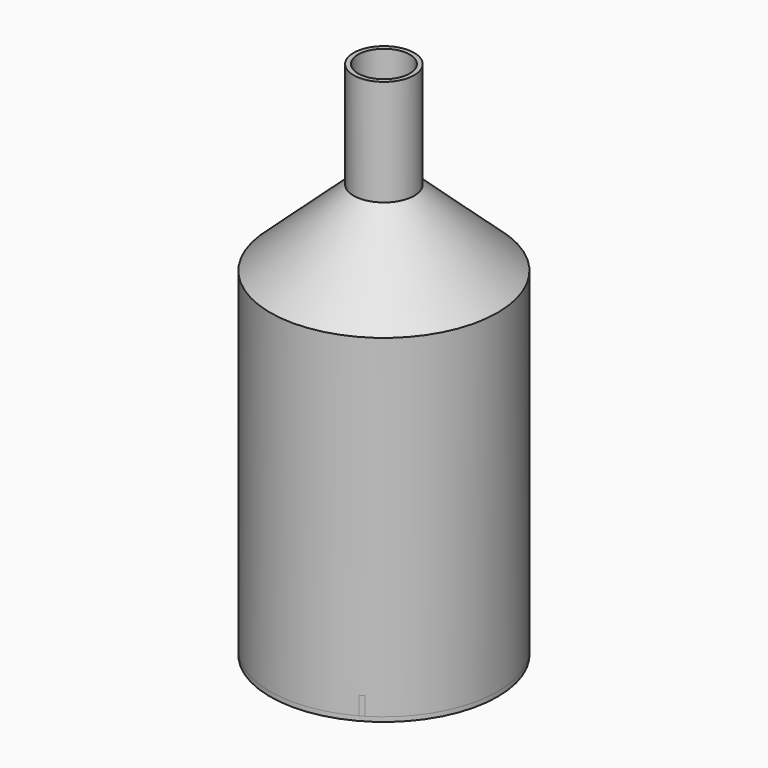
from build123d import *

# Parameters (mm, degrees)
F2_R      = 4
F2_R_2    = 3.4
F5_DEPTH  = 14
F7_R      = 15
F3_R      = 4
F4_R      = 3.2
F8_R      = 14.2
F6_R      = 15
F6_R_2    = 14.4
F11_DEPTH = 44
F14_DEPTH = 2.4
F15_R     = 15
F16_DEPTH = 0.6


with BuildPart() as f5:
    # F2 (on Top) → F5 (new body)
    with BuildSketch(Plane.XY):
        Circle(F2_R)
        Circle(F2_R_2, mode=Mode.SUBTRACT)
    extrude(amount=F5_DEPTH)

    # F7 (on offset) → F9 section 0
    with BuildSketch(Plane.XY.offset(-10)):
        Circle(F7_R)
    # F3 (on Top) → F9 section 1
    with BuildSketch(Plane.XY):
        Circle(F3_R)
    loft()

    # F4 (on Top) → F10 section 0
    with BuildSketch(Plane.XY):
        Circle(F4_R)
    # F8 (on offset) → F10 section 1
    with BuildSketch(Plane.XY.offset(-10)):
        Circle(F8_R)
    loft(mode=Mode.SUBTRACT)

    # F6 (on offset) → F11 (join)
    with BuildSketch(Plane.XY.offset(-10)):
        Circle(F6_R)
        Circle(F6_R_2, mode=Mode.SUBTRACT)
    extrude(amount=-F11_DEPTH)

    # F13 (on offset) → F14 (join)
    with BuildSketch(Plane(origin=(0, 0, -54), x_dir=(1, 0, 0), z_dir=(0, 0, -1))):
        with BuildLine():
            Line((0.3464101615, 0), (7.7583074711, 12.8377827207))
            ThreePointArc((7.7583074711, 12.8377827207), (7.5, 12.9903810568), (7.2386922288, 13.1377827207))
            Line((7.2386922288, 13.1377827207), (-0.1732050808, 0.3))
            Line((-0.1732050808, 0.3), (-14.9969996999, 0.3))
            ThreePointArc((-14.9969996999, 0.3), (-15, 0), (-14.9969996999, -0.3))
            Line((-14.9969996999, -0.3), (-0.1732050808, -0.3))
            Line((-0.1732050808, -0.3), (7.2386922288, -13.1377827207))
            ThreePointArc((7.2386922288, -13.1377827207), (7.5, -12.9903810568), (7.7583074711, -12.8377827207))
            Line((7.7583074711, -12.8377827207), (0.3464101615, 0))
        make_face()
    extrude(amount=-F14_DEPTH)

    # F15 (on offset) → F16 (join)
    with BuildSketch(Plane(origin=(0, 0, -54), x_dir=(1, 0, 0), z_dir=(0, 0, -1))):
        Circle(F15_R)
    extrude(amount=F16_DEPTH)


solid = f5.part
